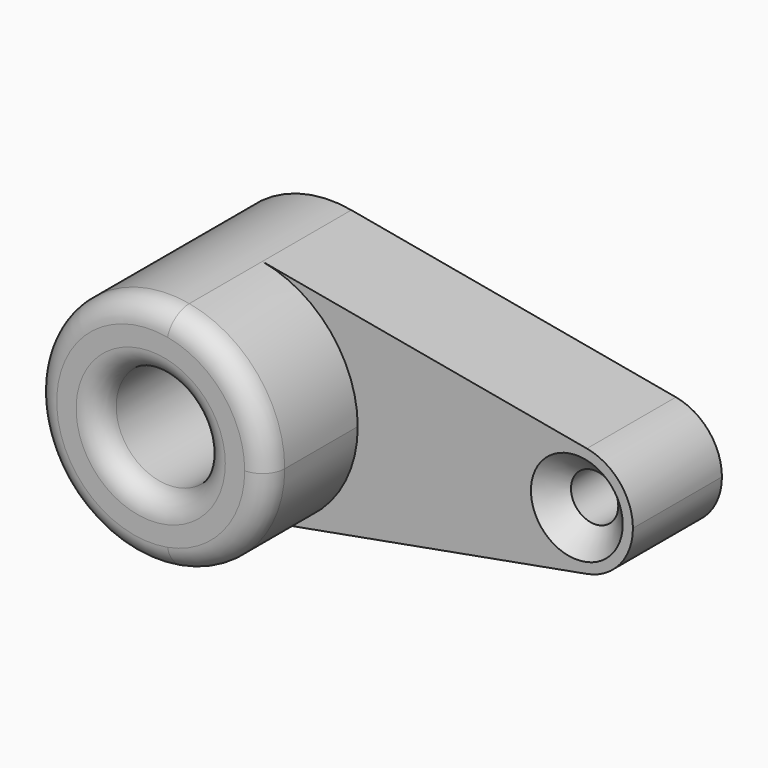
from build123d import *

# Parameters (mm, degrees)
F0_R     = 11.949999
F0_R_2   = 5.401318
F1_DEPTH = 25.4
F2_DEPTH = 51.308
F3_R     = 5.08
F4_SIZE  = 5.08


with BuildPart() as f1:
    # F0 (on Front) → F1 (new body)
    with BuildSketch(Plane.XZ):
        with BuildLine():
            ThreePointArc((4.758947, -26.106481), (20.377471, -16.998665), (26.53669, 0))
            ThreePointArc((26.53669, 0), (20.377471, 16.998665), (4.758947, 26.106481))
            ThreePointArc((4.758947, 26.106481), (-26.53669, 0), (4.758947, -26.106481))
        make_face()
        Circle(F0_R, mode=Mode.SUBTRACT)
        with BuildLine():
            ThreePointArc((4.758947, 26.106481), (20.377471, 16.998665), (26.53669, 0))
            ThreePointArc((26.53669, 0), (20.377471, -16.998665), (4.758947, -26.106481))
            Line((4.758947, -26.106481), (78.85573, -12.599387))
            ThreePointArc((78.85573, -12.599387), (63.751977, 0), (78.85573, 12.599387))
            Line((78.85573, 12.599387), (4.758947, 26.106481))
        make_face()
        with BuildLine():
            ThreePointArc((89.366002, 0), (86.393468, 8.203815), (78.85573, 12.599387))
            ThreePointArc((78.85573, 12.599387), (63.751977, 0), (78.85573, -12.599387))
            ThreePointArc((78.85573, -12.599387), (86.393468, -8.203815), (89.366002, 0))
        make_face()
        with Locations((76.55899, 0)):
            Circle(F0_R_2, mode=Mode.SUBTRACT)
    extrude(amount=F1_DEPTH)

    # F0 (on Front) → F2 (join)
    with BuildSketch(Plane.XZ):
        with BuildLine():
            ThreePointArc((4.758947, -26.106481), (20.377471, -16.998665), (26.53669, 0))
            ThreePointArc((26.53669, 0), (20.377471, 16.998665), (4.758947, 26.106481))
            ThreePointArc((4.758947, 26.106481), (-26.53669, 0), (4.758947, -26.106481))
        make_face()
        Circle(F0_R, mode=Mode.SUBTRACT)
    extrude(amount=F2_DEPTH)

    # F3
    f3_edges = [f1.edges().sort_by_distance(p)[0] for p in [
        (-4.758947, -51.308, 26.106481),
        (-11.949999, -51.308, 0),
    ]]
    fillet(f3_edges, radius=F3_R)

    # F4
    f4_edges = [f1.edges().sort_by_distance(p)[0] for p in [
        (71.157671, -25.4, 0),
    ]]
    chamfer(f4_edges, length=F4_SIZE)


solid = f1.part
